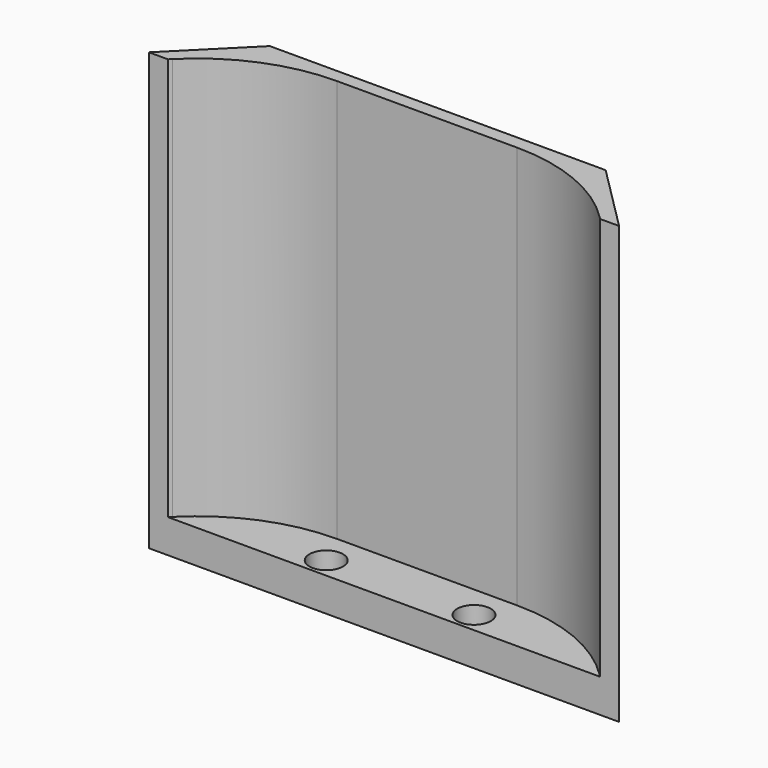
from build123d import *

# Parameters (mm, degrees)
PAD_DEPTH    = 5
PAD001_DEPTH = 60
FILLET_R     = 26
SKETCH002_R  = 2.5
POCKET_DEPTH = 5


with BuildPart() as part:
    # Sketch → Pad (new body)
    with BuildSketch(Plane.XY):
        Polygon((0, 0), (10, 10), (60, 10), (70, 0), align=None)
    extrude(amount=PAD_DEPTH)

    # Sketch001 (on Face6 of Pad) → Pad001 (join)
    with BuildSketch(Plane.XY.offset(5)):
        Polygon((0, 0), (10, 10), (60, 10), (70, 0), (67.172, 0), (59.172, 8), (10.828, 8), (2.828, 0), align=None)
    extrude(amount=PAD001_DEPTH)

    # Fillet
    fillet_edges = [part.edges().sort_by_distance(p)[0] for p in [
        (59.172, 8, 35),
        (10.828, 8, 35),
    ]]
    fillet(fillet_edges, radius=FILLET_R)

    # Sketch002 (on Face1 of Fillet) → Pocket (cut)
    with BuildSketch(Plane.XY.offset(5)):
        with Locations((24, 3)):
            Circle(SKETCH002_R)
        with Locations((46, 3)):
            Circle(SKETCH002_R)
    extrude(amount=-POCKET_DEPTH, mode=Mode.SUBTRACT)


solid = part.part
